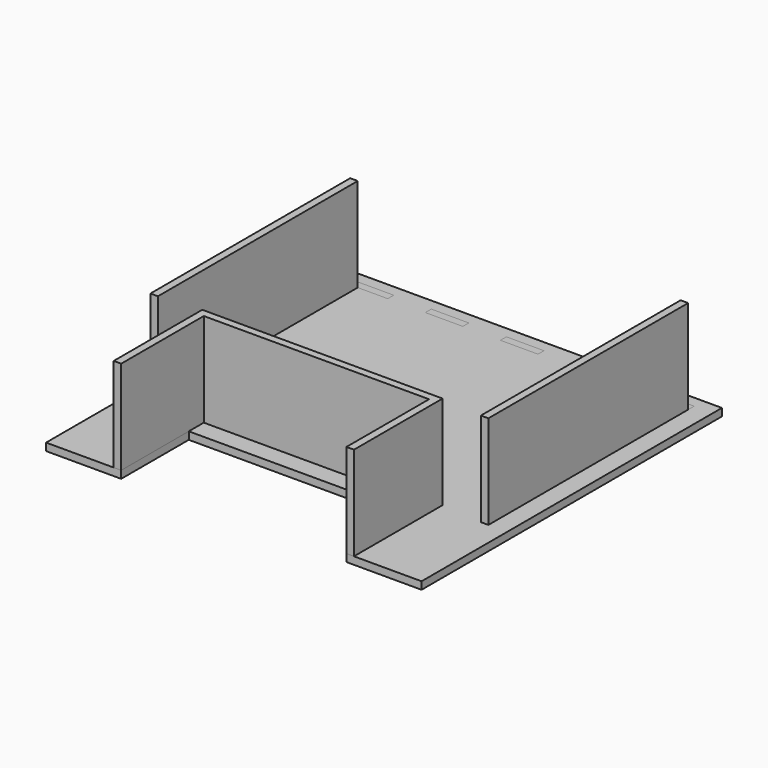
from build123d import *

# Parameters (mm, degrees)
F0_W     = 200
F0_H     = 200
F1_DEPTH = 2
F3_DEPTH = 4
F4_W     = 10
F4_H     = 4
F5_DEPTH = 25
F6_W     = 4
F6_H     = 20
F7_DEPTH = 4
F6_W_2   = 20
F6_H_2   = 4
F8_W     = 4
F8_H     = 133
F9_DEPTH = 50
F8_W_2   = 120
F8_H_2   = 4


with BuildPart() as f1:
    # F0 (on Top) → F1 (new body, symmetric)
    with BuildSketch(Plane.XY):
        with Locations((2.3726588649, 5.1106324806)):
            Rectangle(F0_W, F0_H)
        Polygon((-87.6273411351, -37.8893675194), (-87.6273411351, -27.8893675194), (-87.6273411351, -17.8893675194), (-83.6273411351, -17.8893675194), (-83.6273411351, -27.8893675194), (-83.6273411351, -37.8893675194), align=None, mode=Mode.SUBTRACT)
        Polygon((92.3726588649, -17.8893675194), (92.3726588649, -27.8893675194), (92.3726588649, -37.8893675194), (88.3726588649, -37.8893675194), (88.3726588649, -27.8893675194), (88.3726588649, -17.8893675194), align=None, mode=Mode.SUBTRACT)
        Polygon((-87.6273411351, 5.1106324806), (-87.6273411351, 15.1106324806), (-83.6273411351, 15.1106324806), (-83.6273411351, 5.1106324806), (-83.6273411351, -4.8893675194), (-87.6273411351, -4.8893675194), align=None, mode=Mode.SUBTRACT)
        Polygon((-83.6273411351, 28.1106324806), (-87.6273411351, 28.1106324806), (-87.6273411351, 38.1106324806), (-87.6273411351, 48.1106324806), (-83.6273411351, 48.1106324806), (-83.6273411351, 38.1106324806), align=None, mode=Mode.SUBTRACT)
        Polygon((-87.6273411351, 71.1106324806), (-87.6273411351, 81.1106324806), (-83.6273411351, 81.1106324806), (-83.6273411351, 71.1106324806), (-83.6273411351, 61.1106324806), (-87.6273411351, 61.1106324806), align=None, mode=Mode.SUBTRACT)
        Polygon((-67.6273411351, 95.1106324806), (-77.6273411351, 95.1106324806), (-87.6273411351, 95.1106324806), (-87.6273411351, 99.1106324806), (-77.6273411351, 99.1106324806), (-67.6273411351, 99.1106324806), align=None, mode=Mode.SUBTRACT)
        Polygon((-27.6273411351, 95.1106324806), (-37.6273411351, 95.1106324806), (-47.6273411351, 95.1106324806), (-47.6273411351, 99.1106324806), (-37.6273411351, 99.1106324806), (-27.6273411351, 99.1106324806), align=None, mode=Mode.SUBTRACT)
        Polygon((92.3726588649, 5.1106324806), (92.3726588649, -4.8893675194), (88.3726588649, -4.8893675194), (88.3726588649, 5.1106324806), (88.3726588649, 15.1106324806), (92.3726588649, 15.1106324806), align=None, mode=Mode.SUBTRACT)
        Polygon((88.3726588649, 28.1106324806), (88.3726588649, 38.1106324806), (88.3726588649, 48.1106324806), (92.3726588649, 48.1106324806), (92.3726588649, 38.1106324806), (92.3726588649, 28.1106324806), align=None, mode=Mode.SUBTRACT)
        Polygon((12.3726588649, 95.1106324806), (2.3726588649, 95.1106324806), (-7.6273411351, 95.1106324806), (-7.6273411351, 99.1106324806), (2.3726588649, 99.1106324806), (12.3726588649, 99.1106324806), align=None, mode=Mode.SUBTRACT)
        Polygon((52.3726588649, 95.1106324806), (42.3726588649, 95.1106324806), (32.3726588649, 95.1106324806), (32.3726588649, 99.1106324806), (42.3726588649, 99.1106324806), (52.3726588649, 99.1106324806), align=None, mode=Mode.SUBTRACT)
        Polygon((88.3726588649, 61.1106324806), (88.3726588649, 71.1106324806), (88.3726588649, 81.1106324806), (92.3726588649, 81.1106324806), (92.3726588649, 71.1106324806), (92.3726588649, 61.1106324806), align=None, mode=Mode.SUBTRACT)
        Polygon((92.3726588649, 95.1106324806), (82.3726588649, 95.1106324806), (72.3726588649, 95.1106324806), (72.3726588649, 99.1106324806), (82.3726588649, 99.1106324806), (92.3726588649, 99.1106324806), align=None, mode=Mode.SUBTRACT)
    extrude(amount=F1_DEPTH, both=True)

    # F2 (on face) → F3 (cut, through all)
    with BuildSketch(Plane.XY.offset(2)):
        Polygon((62.3726588649, -49.8893675194), (2.3726588649, -49.8893675194), (-57.6273411351, -49.8893675194), (-57.6273411351, -94.8893675194), (2.3726588649, -94.8893675194), (62.3726588649, -94.8893675194), align=None)
    extrude(amount=-F3_DEPTH, mode=Mode.SUBTRACT)

    # F4 (on face) → F5 (cut)
    with BuildSketch(Plane.XY.offset(2)):
        with Locations((-2.6273411351, -37.8893675194)):
            Rectangle(F4_W, F4_H)
        with Locations((7.3726588649, -37.8893675194)):
            Rectangle(F4_W, F4_H)
        Polygon((47.3726588649, -35.8893675194), (37.3726588649, -35.8893675194), (27.3726588649, -35.8893675194), (27.3726588649, -39.8893675194), (37.3726588649, -39.8893675194), (47.3726588649, -39.8893675194), align=None)
        Polygon((-42.6273411351, -39.8893675194), (-32.6273411351, -39.8893675194), (-22.6273411351, -39.8893675194), (-22.6273411351, -35.8893675194), (-32.6273411351, -35.8893675194), (-42.6273411351, -35.8893675194), align=None)
    extrude(amount=-F5_DEPTH, mode=Mode.SUBTRACT)


with BuildPart() as f7:
    # F6 (on face) → F7 (new body)
    with BuildSketch(Plane.XY.offset(2)):
        with Locations((-85.6273411351, 71.1106324806)):
            Rectangle(F6_W, F6_H)
    extrude(amount=-F7_DEPTH)


with BuildPart() as f7b:
    # F6 (on face) → F7, piece 2 (new body)
    with BuildSketch(Plane.XY.offset(2)):
        with Locations((-85.6273411351, 38.1106324806)):
            Rectangle(F6_W, F6_H)
    extrude(amount=-F7_DEPTH)


with BuildPart() as f7c:
    # F6 (on face) → F7, piece 3 (new body)
    with BuildSketch(Plane.XY.offset(2)):
        with Locations((-85.6273411351, 5.1106324806)):
            Rectangle(F6_W, F6_H)
    extrude(amount=-F7_DEPTH)


with BuildPart() as f7d:
    # F6 (on face) → F7, piece 4 (new body)
    with BuildSketch(Plane.XY.offset(2)):
        with Locations((-85.6273411351, -27.8893675194)):
            Rectangle(F6_W, F6_H)
    extrude(amount=-F7_DEPTH)


with BuildPart() as f7e:
    # F6 (on face) → F7, piece 5 (new body)
    with BuildSketch(Plane.XY.offset(2)):
        with Locations((-32.6273411351, -37.8893675194)):
            Rectangle(F6_W_2, F6_H_2)
    extrude(amount=-F7_DEPTH)


with BuildPart() as f7f:
    # F6 (on face) → F7, piece 6 (new body)
    with BuildSketch(Plane.XY.offset(2)):
        with Locations((2.3726588649, -37.8893675194)):
            Rectangle(F6_W_2, F6_H_2)
    extrude(amount=-F7_DEPTH)


with BuildPart() as f7g:
    # F6 (on face) → F7, piece 7 (new body)
    with BuildSketch(Plane.XY.offset(2)):
        with Locations((37.3726588649, -37.8893675194)):
            Rectangle(F6_W_2, F6_H_2)
    extrude(amount=-F7_DEPTH)


with BuildPart() as f7h:
    # F6 (on face) → F7, piece 8 (new body)
    with BuildSketch(Plane.XY.offset(2)):
        with Locations((90.3726588649, -27.8893675194)):
            Rectangle(F6_W, F6_H)
    extrude(amount=-F7_DEPTH)


with BuildPart() as f7i:
    # F6 (on face) → F7, piece 9 (new body)
    with BuildSketch(Plane.XY.offset(2)):
        with Locations((90.3726588649, 5.1106324806)):
            Rectangle(F6_W, F6_H)
    extrude(amount=-F7_DEPTH)


with BuildPart() as f7j:
    # F6 (on face) → F7, piece 10 (new body)
    with BuildSketch(Plane.XY.offset(2)):
        with Locations((90.3726588649, 38.1106324806)):
            Rectangle(F6_W, F6_H)
    extrude(amount=-F7_DEPTH)


with BuildPart() as f7k:
    # F6 (on face) → F7, piece 11 (new body)
    with BuildSketch(Plane.XY.offset(2)):
        with Locations((90.3726588649, 71.1106324806)):
            Rectangle(F6_W, F6_H)
    extrude(amount=-F7_DEPTH)


with BuildPart() as f7l:
    # F6 (on face) → F7, piece 12 (new body)
    with BuildSketch(Plane.XY.offset(2)):
        with Locations((82.3726588649, 97.1106324806)):
            Rectangle(F6_W_2, F6_H_2)
    extrude(amount=-F7_DEPTH)


with BuildPart() as f7m:
    # F6 (on face) → F7, piece 13 (new body)
    with BuildSketch(Plane.XY.offset(2)):
        with Locations((42.3726588649, 97.1106324806)):
            Rectangle(F6_W_2, F6_H_2)
    extrude(amount=-F7_DEPTH)


with BuildPart() as f7n:
    # F6 (on face) → F7, piece 14 (new body)
    with BuildSketch(Plane.XY.offset(2)):
        with Locations((2.3726588649, 97.1106324806)):
            Rectangle(F6_W_2, F6_H_2)
    extrude(amount=-F7_DEPTH)


with BuildPart() as f7o:
    # F6 (on face) → F7, piece 15 (new body)
    with BuildSketch(Plane.XY.offset(2)):
        with Locations((-37.6273411351, 97.1106324806)):
            Rectangle(F6_W_2, F6_H_2)
    extrude(amount=-F7_DEPTH)


with BuildPart() as f7p:
    # F6 (on face) → F7, piece 16 (new body)
    with BuildSketch(Plane.XY.offset(2)):
        with Locations((-77.6273411351, 97.1106324806)):
            Rectangle(F6_W_2, F6_H_2)
    extrude(amount=-F7_DEPTH)


with BuildPart() as f9:
    # F8 (on face) → F9 (new body)
    with BuildSketch(Plane.XY.offset(2)):
        with Locations((-85.6273411351, 28.6106324806)):
            Rectangle(F8_W, F8_H)
    extrude(amount=F9_DEPTH)


with BuildPart() as f9b:
    # F8 (on face) → F9, piece 2 (new body)
    with BuildSketch(Plane.XY.offset(2)):
        with Locations((90.3726588649, 28.6106324806)):
            Rectangle(F8_W, F8_H)
    extrude(amount=F9_DEPTH)


with BuildPart() as f9c:
    # F8 (on face) → F9, piece 3 (new body)
    with BuildSketch(Plane.XY.offset(2)):
        with Locations((2.3726588649, -37.8893675194)):
            Rectangle(F8_W_2, F8_H_2)
        Polygon((-57.6273411351, -94.8893675194), (-57.6273411351, -39.8893675194), (-57.6273411351, -35.8893675194), (-61.6273411351, -35.8893675194), (-61.6273411351, -94.8893675194), align=None)
        Polygon((62.3726588649, -35.8893675194), (62.3726588649, -39.8893675194), (62.3726588649, -94.8893675194), (66.3726588649, -94.8893675194), (66.3726588649, -35.8893675194), align=None)
    extrude(amount=F9_DEPTH)


solid = Compound([f1.part, f7.part, f7b.part, f7c.part, f7d.part, f7e.part, f7f.part, f7g.part, f7h.part, f7i.part, f7j.part, f7k.part, f7l.part, f7m.part, f7n.part, f7o.part, f7p.part, f9.part, f9b.part, f9c.part])
